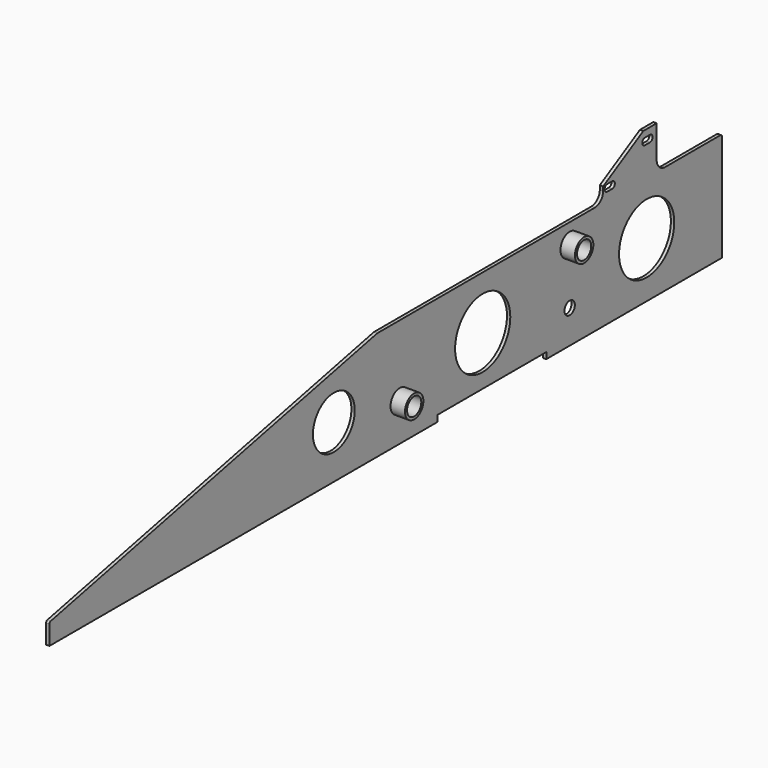
from build123d import *

# Parameters (mm, degrees)
F0_R          = 12.5
F0_R_2        = 5.5
F0_R_3        = 3.1
F0_R_4        = 16.5
F1_DEPTH      = 1.6
F0_R_5        = 4.25
F2_DEPTH      = 8.5
F2_DEPTH_BACK = 2.5


with BuildPart() as f1:
    # F0 (on Right) → F1 (new body)
    with BuildSketch(Plane.YZ):
        with BuildLine():
            Line((-105, 0), (0, 0))
            Line((0, 0), (0, 51))
            ThreePointArc((0, 51), (-0.292893, 51.707107), (-1, 52))
            Line((-1, 52), (-34, 52))
            ThreePointArc((-34, 52), (-37.535534, 53.464466), (-39, 57))
            Line((-39, 57), (-39, 72.5))
            Line((-39, 72.5), (-47, 72.5))
            Line((-47, 72.5), (-71, 58.925446))
            Line((-71, 58.925446), (-71, 57))
            ThreePointArc((-71, 57), (-72.464466, 53.464466), (-76, 52))
            Line((-76, 52), (-206, 52))
            Line((-206, 52), (-401.209529, 10.169387))
            ThreePointArc((-401.209529, 10.169387), (-401.777666, 9.820262), (-402, 9.191584))
            Line((-402, 9.191584), (-402, 0))
            Line((-402, 0), (-170, 0))
            Line((-170, 0), (-170, 3))
            Line((-170, 3), (-105, 3))
            Line((-105, 3), (-105, 0))
        make_face()
        with Locations((-231.987359, 25)):
            Circle(F0_R, mode=Mode.SUBTRACT)
        with Locations((-192.587401, 18)):
            Circle(F0_R_2, mode=Mode.SUBTRACT)
        with Locations((-91, 15.9)):
            Circle(F0_R_3, mode=Mode.SUBTRACT)
        with Locations((-143, 26.5)):
            Circle(F0_R_4, mode=Mode.SUBTRACT)
        with Locations((-45, 26.5)):
            Circle(F0_R_4, mode=Mode.SUBTRACT)
        with Locations((-91, 42.5)):
            Circle(F0_R_2, mode=Mode.SUBTRACT)
        with BuildLine():
            Line((-68.599963, 58.899929), (-65.614878, 58.899859))
            ThreePointArc((-65.614878, 58.899859), (-64, 57.299806), (-65.615122, 55.7))
            Line((-65.615122, 55.7), (-68.599962, 55.7))
            ThreePointArc((-68.599962, 55.7), (-70.189269, 57.299964), (-68.599963, 58.899929))
        make_face(mode=Mode.SUBTRACT)
        with BuildLine():
            Line((-45.999612, 69.3), (-43.014526, 69.3))
            ThreePointArc((-43.014526, 69.3), (-41.414649, 67.699878), (-43.014771, 66.1))
            Line((-43.014771, 66.1), (-45.999611, 66.1))
            ThreePointArc((-45.999611, 66.1), (-47.599611, 67.699999), (-45.999612, 69.3))
        make_face(mode=Mode.SUBTRACT)
    extrude(amount=F1_DEPTH)

    # F0 (on Right) → F2 (join, two sides)
    with BuildSketch(Plane.YZ) as f2_sk:
        with Locations((-91, 42.5)):
            Circle(F0_R_2)
        with Locations((-91, 42.5)):
            Circle(F0_R_5, mode=Mode.SUBTRACT)
        with Locations((-192.587401, 18)):
            Circle(F0_R_2)
        with Locations((-192.587401, 18)):
            Circle(F0_R_5, mode=Mode.SUBTRACT)
    extrude(amount=F2_DEPTH)
    extrude(f2_sk.sketch, amount=-F2_DEPTH_BACK)


solid = f1.part
